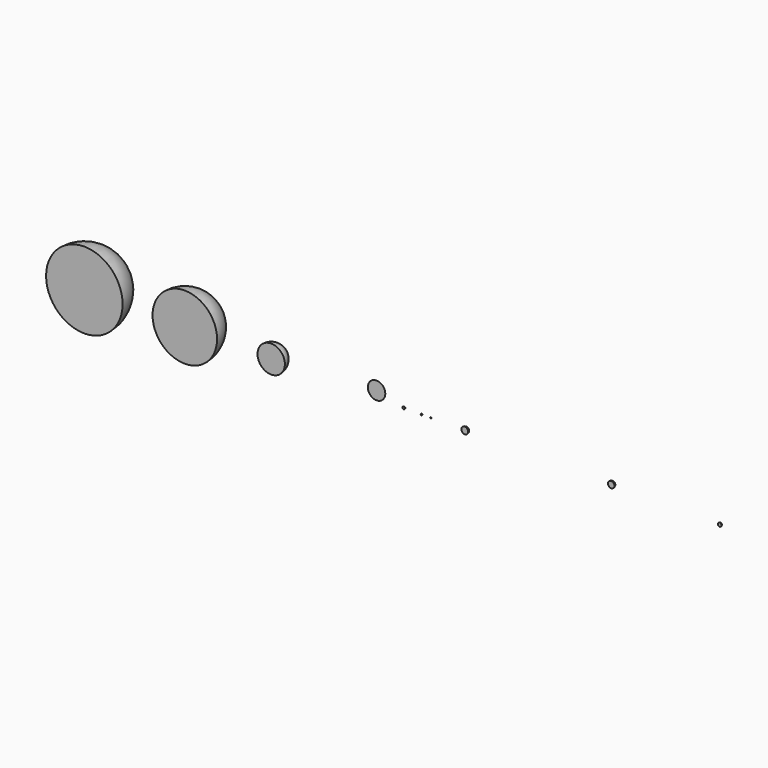
from build123d import *

# Parameters (mm, degrees)
F1_ANGLE = 180
F2_W     = 145.068303
F2_H     = 130.428389
F3_DEPTH = 39


with BuildPart() as f1:
    # F0 (on Front) → F1 (revolve)
    with BuildSketch(Plane.XZ):
        with BuildLine():
            Line((-1465.178906, 0), (-1165.178906, 0))
            ThreePointArc((-1165.178906, 0), (-1315.178906, 150), (-1465.178906, 0))
        make_face()
        with BuildLine():
            Line((-1047.676783, 0), (-794.774783, 0))
            ThreePointArc((-794.774783, 0), (-921.225783, 126.451), (-1047.676783, 0))
        make_face()
        with BuildLine():
            Line((-636.148134, 0), (-528.896134, 0))
            ThreePointArc((-528.896134, 0), (-582.522134, 53.626), (-636.148134, 0))
        make_face()
        with BuildLine():
            Line((-252.479797, 0), (-148.679797, 0))
            ThreePointArc((-148.679797, 0), (-200.579797, 51.9), (-252.479797, 0))
        make_face()
        with BuildLine():
            Line((163.258278, 0), (189.858278, 0))
            ThreePointArc((189.858278, 0), (176.558278, 13.3), (163.258278, 0))
        make_face()
        with BuildLine():
            Line((738.072847, 0), (763.272847, 0))
            ThreePointArc((763.272847, 0), (750.672847, 12.6), (738.072847, 0))
        make_face()
        with BuildLine():
            Line((1168.853941, 0), (1182.853941, 0))
            ThreePointArc((1182.853941, 0), (1175.853941, 7), (1168.853941, 0))
        make_face()
        with BuildLine():
            Line((-68.121341, 0), (-58.121341, 0))
            ThreePointArc((-58.121341, 0), (-63.121341, 5), (-68.121341, 0))
        make_face()
        with BuildLine():
            Line((3.857207, 0), (9.857207, 0))
            ThreePointArc((9.857207, 0), (6.857207, 3), (3.857207, 0))
        make_face()
        with BuildLine():
            Line((40.804369, 0), (45.804369, 0))
            ThreePointArc((45.804369, 0), (43.304369, 2.5), (40.804369, 0))
        make_face()
    revolve(axis=Axis((-1315.178906, 0, 0), (-1, 0, 0)), revolution_arc=F1_ANGLE)


with BuildPart() as f3:
    # F2 (on face) → F3 (new body)
    with BuildSketch(Plane.XZ):
        with Locations((-204.572491, -2.664409)):
            Rectangle(F2_W, F2_H)
    extrude(amount=-F3_DEPTH)


with BuildPart() as f1_1:
    add(f1.part)

    # F4: cut F3
    add(f3.part, mode=Mode.SUBTRACT)


solid = f1_1.part
